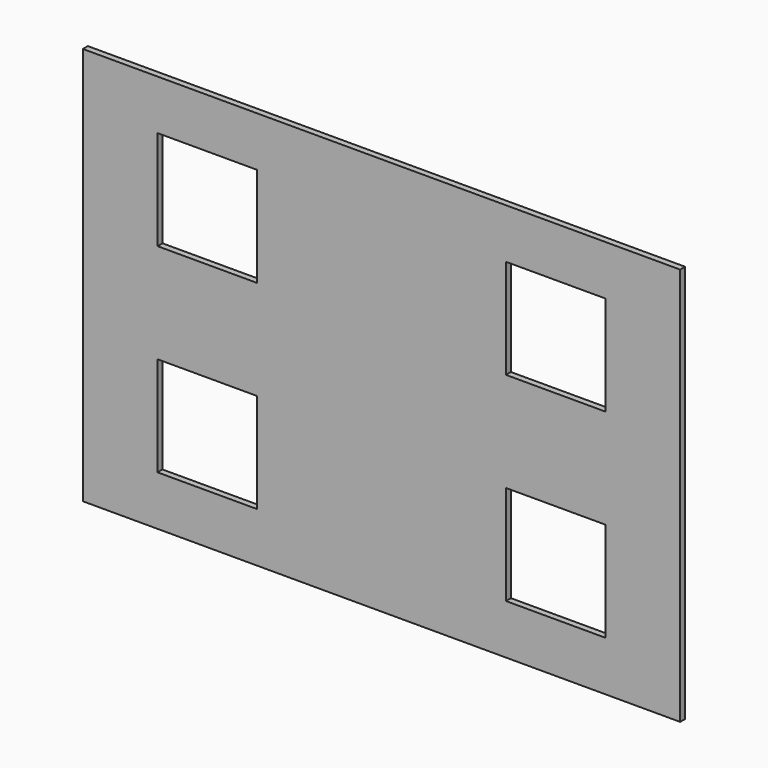
from build123d import *

# Parameters (mm, degrees)
F0_W     = 50.8
F0_H     = 50.8
F1_DEPTH = 3.175


with BuildPart() as f1:
    # F0 (on Front) → F1 (new body)
    with BuildSketch(Plane.XZ):
        Polygon((152.4, 0), (152.4, 101.6), (0, 101.6), (-152.4, 101.6), (-152.4, 0), (-152.4, -101.6), (0, -101.6), (152.4, -101.6), align=None)
        with Locations((-88.9, -50.8)):
            Rectangle(F0_W, F0_H, mode=Mode.SUBTRACT)
        with Locations((88.9, -50.8)):
            Rectangle(F0_W, F0_H, mode=Mode.SUBTRACT)
        with Locations((-88.9, 50.8)):
            Rectangle(F0_W, F0_H, mode=Mode.SUBTRACT)
        with Locations((88.9, 50.8)):
            Rectangle(F0_W, F0_H, mode=Mode.SUBTRACT)
    extrude(amount=F1_DEPTH)


solid = f1.part
